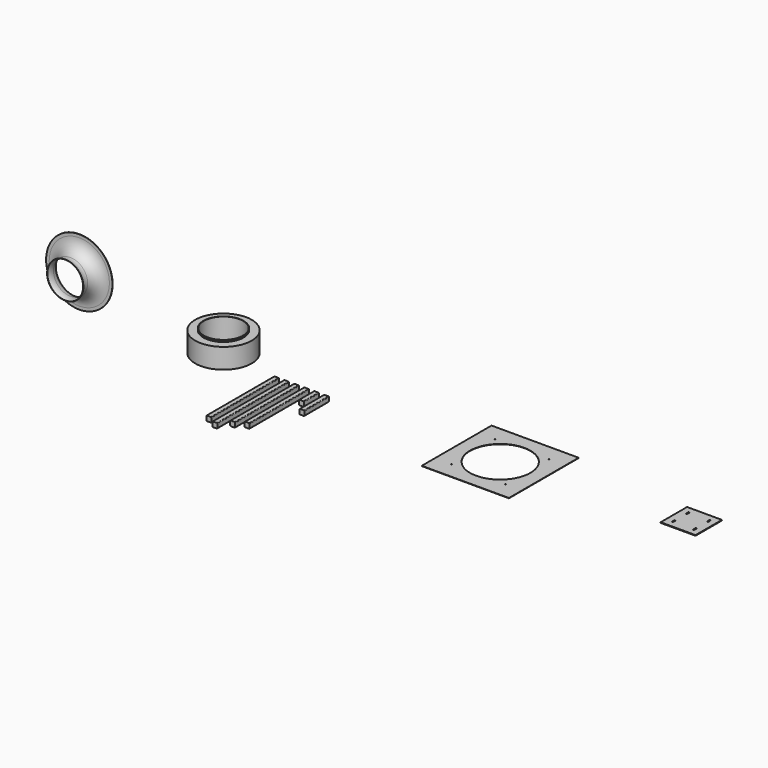
from build123d import *

# Parameters (mm, degrees)
F0_W      = 50.8
F0_H      = 50.8
F1_DEPTH  = 863.6
F2_R      = 6.35
F3_DEPTH  = 914.4
F4_DEPTH  = 812.8
F5_DEPTH  = 755.65
F6_DEPTH  = 190.5
F7_R      = 288.3027
F7_R_2    = 201.295
F8_DEPTH  = 204.978
F9_DEPTH  = 311.15
F10_W     = 889
F10_H     = 889
F10_R     = 4.365625
F10_R_2   = 307.975
F11_DEPTH = 3.175
F12_W     = 355.6
F12_H     = 336.55
F13_DEPTH = 6.35
F14_R     = 6.35
F14_2_R   = 6.35
F14_3_R   = 6.35
F14_4_R   = 6.35
F14_5_R   = 6.35
F17_R     = 201.6125
F17_R_2   = 19.05
F18_DEPTH = 12.7
F19_R     = 204.47
F19_R_2   = 201.295
F20_DEPTH = 17.78


with BuildPart() as f1:
    # F0 (on Front) → F1 (new body)
    with BuildSketch(Plane.XZ):
        with Locations((25.4, 25.4)):
            Rectangle(F0_W, F0_H)
    extrude(amount=F1_DEPTH)

    # F2
    f2_edges = [f1.edges().sort_by_distance(p)[0] for p in [
        (0, -431.8, 50.8),
        (0, -431.8, 0),
        (50.8, -431.8, 50.8),
        (50.8, -431.8, 0),
    ]]
    fillet(f2_edges, radius=F2_R)


with BuildPart() as f3:
    # F0 (on Front) → F3 (new body)
    with BuildSketch(Plane.XZ):
        with Locations((127, 25.4)):
            Rectangle(F0_W, F0_H)
    extrude(amount=F3_DEPTH)

    # F14
    f14_edges = [f3.edges().sort_by_distance(p)[0] for p in [
        (101.6, -457.2, 50.8),
        (152.4, -457.2, 50.8),
        (101.6, -457.2, 0),
        (152.4, -457.2, 0),
    ]]
    fillet(f14_edges, radius=F14_R)


with BuildPart() as f4:
    # F0 (on Front) → F4 (new body)
    with BuildSketch(Plane.XZ):
        with Locations((228.6, 25.4)):
            Rectangle(F0_W, F0_H)
    extrude(amount=F4_DEPTH)

    # F14#2
    f14_2_edges = [f4.edges().sort_by_distance(p)[0] for p in [
        (203.2, -406.4, 50.8),
        (254, -406.4, 50.8),
        (203.2, -406.4, 0),
        (254, -406.4, 0),
    ]]
    fillet(f14_2_edges, radius=F14_2_R)


with BuildPart() as f5:
    # F0 (on Front) → F5 (new body)
    with BuildSketch(Plane.XZ):
        with Locations((330.2, 25.4)):
            Rectangle(F0_W, F0_H)
    extrude(amount=F5_DEPTH)

    # F14#3
    f14_3_edges = [f5.edges().sort_by_distance(p)[0] for p in [
        (304.8, -377.825, 0),
        (355.6, -377.825, 0),
        (304.8, -377.825, 50.8),
        (355.6, -377.825, 50.8),
    ]]
    fillet(f14_3_edges, radius=F14_3_R)


with BuildPart() as f6:
    # F0 (on Front) → F6 (new body)
    with BuildSketch(Plane.XZ):
        with Locations((431.8, 25.4)):
            Rectangle(F0_W, F0_H)
    extrude(amount=F6_DEPTH)

    # F14#4
    f14_4_edges = [f6.edges().sort_by_distance(p)[0] for p in [
        (406.4, -95.25, 0),
        (457.2, -95.25, 0),
        (406.4, -95.25, 50.8),
        (457.2, -95.25, 50.8),
    ]]
    fillet(f14_4_edges, radius=F14_4_R)


with BuildPart() as f8:
    # F7 (on Top) → F8 (new body)
    with BuildSketch(Plane.XY):
        with Locations((-625.2964735031, 136.6959810257)):
            Circle(F7_R)
        with Locations((-625.2964735031, 136.6959810257)):
            Circle(F7_R_2, mode=Mode.SUBTRACT)
    extrude(amount=F8_DEPTH)

    # F17 (on face) → F18 (join)
    with BuildSketch(Plane(origin=(0, 0, 0), x_dir=(1, 0, 0), z_dir=(0, 0, -1))):
        with Locations((-625.2964735031, -136.6959810257)):
            Circle(F17_R)
        with Locations((-625.2964735031, -136.6959810257)):
            Circle(F17_R_2, mode=Mode.SUBTRACT)
    extrude(amount=-F18_DEPTH)

    # F19 (on face) → F20 (join)
    with BuildSketch(Plane.XY.offset(204.978)):
        with Locations((-625.2964735031, 136.6959810257)):
            Circle(F19_R)
        with Locations((-625.2964735031, 136.6959810257)):
            Circle(F19_R_2, mode=Mode.SUBTRACT)
    extrude(amount=F20_DEPTH)


with BuildPart() as f9:
    # F0 (on Front) → F9 (new body)
    with BuildSketch(Plane.XZ):
        with Locations((533.4, 25.4)):
            Rectangle(F0_W, F0_H)
    extrude(amount=F9_DEPTH)

    # F14#5
    f14_5_edges = [f9.edges().sort_by_distance(p)[0] for p in [
        (508, -155.575, 0),
        (558.8, -155.575, 0),
        (508, -155.575, 50.8),
        (558.8, -155.575, 50.8),
    ]]
    fillet(f14_5_edges, radius=F14_5_R)


with BuildPart() as f11:
    # F10 (on Top) → F11 (new body)
    with BuildSketch(Plane.XY):
        with Locations((2271.0082060814, 44.5214594526)):
            Rectangle(F10_W, F10_H)
        with Locations((1994.7832060814, -231.7035405474)):
            Circle(F10_R, mode=Mode.SUBTRACT)
        with Locations((2547.2332060814, -231.7035405474)):
            Circle(F10_R, mode=Mode.SUBTRACT)
        with Locations((2271.0082060814, 44.5214594526)):
            Circle(F10_R_2, mode=Mode.SUBTRACT)
        with Locations((1994.7832060814, 320.7464594526)):
            Circle(F10_R, mode=Mode.SUBTRACT)
        with Locations((2547.2332060814, 320.7464594526)):
            Circle(F10_R, mode=Mode.SUBTRACT)
    extrude(amount=F11_DEPTH)


with BuildPart() as f13:
    # F12 (on Top) → F13 (new body)
    with BuildSketch(Plane.XY):
        with Locations((4101.8948446361, 191.8862545967)):
            Rectangle(F12_W, F12_H)
        with BuildLine():
            Line((3987.5948446361, 90.2862545967), (3987.5948446361, 115.6862545967))
            ThreePointArc((3987.5948446361, 115.6862545967), (3993.9448446361, 122.0362545967), (4000.2948446361, 115.6862545967))
            Line((4000.2948446361, 115.6862545967), (4000.2948446361, 90.2862545967))
            ThreePointArc((4000.2948446361, 90.2862545967), (3993.9448446361, 83.9362545967), (3987.5948446361, 90.2862545967))
        make_face(mode=Mode.SUBTRACT)
        with BuildLine():
            Line((4203.4948446361, 90.2862545967), (4203.4948446361, 115.6862545967))
            ThreePointArc((4203.4948446361, 115.6862545967), (4209.8448446361, 122.0362545967), (4216.1948446361, 115.6862545967))
            Line((4216.1948446361, 115.6862545967), (4216.1948446361, 90.2862545967))
            ThreePointArc((4216.1948446361, 90.2862545967), (4209.8448446361, 83.9362545967), (4203.4948446361, 90.2862545967))
        make_face(mode=Mode.SUBTRACT)
        with BuildLine():
            Line((3987.5948446361, 268.0862545967), (3987.5948446361, 293.4862545967))
            ThreePointArc((3987.5948446361, 293.4862545967), (3993.9448446361, 299.8362545967), (4000.2948446361, 293.4862545967))
            Line((4000.2948446361, 293.4862545967), (4000.2948446361, 268.0862545967))
            ThreePointArc((4000.2948446361, 268.0862545967), (3993.9448446361, 261.7362545967), (3987.5948446361, 268.0862545967))
        make_face(mode=Mode.SUBTRACT)
        with BuildLine():
            Line((4203.4948446361, 268.0862545967), (4203.4948446361, 293.4862545967))
            ThreePointArc((4203.4948446361, 293.4862545967), (4209.8448446361, 299.8362545967), (4216.1948446361, 293.4862545967))
            Line((4216.1948446361, 293.4862545967), (4216.1948446361, 268.0862545967))
            ThreePointArc((4216.1948446361, 268.0862545967), (4209.8448446361, 261.7362545967), (4203.4948446361, 268.0862545967))
        make_face(mode=Mode.SUBTRACT)
    extrude(amount=F13_DEPTH)


with BuildPart() as f16:
    # F15 (on Top) → F16 (revolve)
    with BuildSketch(Plane.XY):
        with BuildLine():
            ThreePointArc((-2569.1212499152, 398.9456764167), (-2614.5090903708, 481.2035756279), (-2702.5827214192, 513.9060764167))
            Line((-2702.5827214192, 513.9060764167), (-2734.3327214192, 513.9060764167))
            Line((-2734.3327214192, 513.9060764167), (-2734.3327214192, 511.3660764167))
            Line((-2734.3327214192, 511.3660764167), (-2702.5827214192, 511.3660764167))
            ThreePointArc((-2702.5827214192, 511.3660764167), (-2616.1667909364, 479.2790941822), (-2571.6332294278, 398.5694332395))
            ThreePointArc((-2571.6332294278, 398.5694332395), (-2571.5021775544, 365.4186422738), (-2580.838402642, 333.6094137801))
            Line((-2580.838402642, 333.6094137801), (-2580.838402642, 332.5500764167))
            Line((-2580.838402642, 332.5500764167), (-2578.5298523717, 332.5500764167))
            ThreePointArc((-2578.5298523717, 332.5500764167), (-2568.9873018678, 365.0622712859), (-2569.1212499152, 398.9456764167))
        make_face()
    revolve(axis=Axis((-2395.8043499152, 435.1736456156, 0), (0, -1, 0)))


solid = Compound([f1.part, f3.part, f4.part, f5.part, f6.part, f8.part, f9.part, f11.part, f13.part, f16.part])
